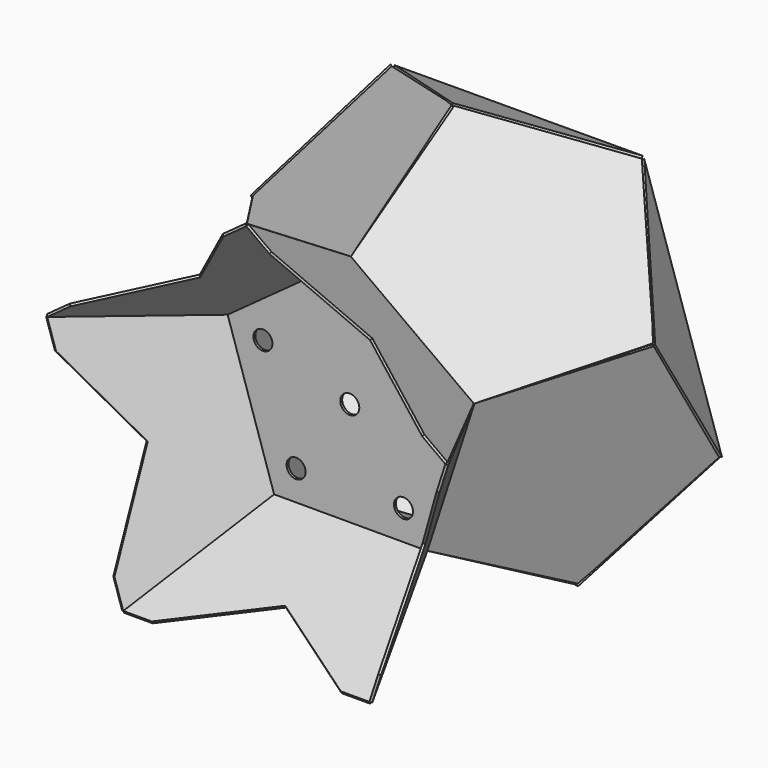
from build123d import *

# Parameters (mm, degrees)
F0_R      = 12.7
F1_DEPTH  = 1.5875
F4_DEPTH  = 3.175
F5_COUNT  = 5
F8_DEPTH  = 3.175
F9_COUNT  = 5
F12_DEPTH = 3.175
F13_COUNT = 5


with BuildPart() as f1:
    # F0 (on Front) → F1 (new body, symmetric)
    with BuildSketch(Plane.XZ):
        Polygon((164.392253257, 53.4142809913), (0, 172.8522442571), (-164.392253257, 53.4142809913), (-101.6, -139.8404031199), (101.6, -139.8404031199), align=None)
        with Locations((-71.7405091835, -98.7423398056)):
            Circle(F0_R, mode=Mode.SUBTRACT)
        Circle(F0_R, mode=Mode.SUBTRACT)
        with Locations((71.7405091835, -98.7423398056)):
            Circle(F0_R, mode=Mode.SUBTRACT)
        with Locations((-116.0785822292, 37.7162176771)):
            Circle(F0_R, mode=Mode.SUBTRACT)
        with Locations((0, 122.0522442571)):
            Circle(F0_R, mode=Mode.SUBTRACT)
        with Locations((116.0785822292, 37.7162176771)):
            Circle(F0_R, mode=Mode.SUBTRACT)
    extrude(amount=F1_DEPTH, both=True)


with BuildPart() as f4:
    # F3 (on face) → F4 (new body)
    with BuildSketch(Plane(origin=(106.027558827, 57.0246804801, -34.4504422064), x_dir=(0.4331011789, -0.8902922986, -0.1407231035), z_dir=(-0.846718292, -0.4553895289, 0.2751154502))):
        Polygon((65.0951943152, 101.6), (65.0951943152, -101.6), (258.3498784264, -164.392253257), (258.3498784264, -126.292253257), (185.4350120119, 0), (258.3498784264, 126.292253257), (258.3498784264, 164.392253257), align=None)
    extrude(amount=F4_DEPTH)


with BuildPart() as f5_1:
    # F5: instance of F4
    add(f4.part.rotate(Axis((0, 0, 0), (0, -1, 0)), 1 * 360 / F5_COUNT))


with BuildPart() as f5_2:
    # F5: instance of F4
    add(f4.part.rotate(Axis((0, 0, 0), (0, -1, 0)), 2 * 360 / F5_COUNT))


with BuildPart() as f5_3:
    # F5: instance of F4
    add(f4.part.rotate(Axis((0, 0, 0), (0, -1, 0)), 3 * 360 / F5_COUNT))


with BuildPart() as f5_4:
    # F5: instance of F4
    add(f4.part.rotate(Axis((0, 0, 0), (0, -1, 0)), 4 * 360 / F5_COUNT))


with BuildPart() as f8:
    # F7 (on face) → F8 (new body)
    with BuildSketch(Plane(origin=(64.670944011, -57.2752760449, 89.0119181165), x_dir=(0.8533295706, 0.2821216489, -0.438447282), z_dir=(-0.5213718864, 0.4617486132, -0.7176068382))):
        Polygon((-73.8517458723, -296.7235646417), (119.9920789466, -357.6728187764), (237.8593003784, -192.1507413609), (116.8614245639, -28.9032174949), (-75.7865966878, -93.532776582), align=None)
    extrude(amount=F8_DEPTH)


with BuildPart() as f9_1:
    # F9: instance of F8
    add(f8.part.rotate(Axis((0, 0, 0), (0, -1, 0)), 1 * 360 / F9_COUNT))


with BuildPart() as f9_2:
    # F9: instance of F8
    add(f8.part.rotate(Axis((0, 0, 0), (0, -1, 0)), 2 * 360 / F9_COUNT))


with BuildPart() as f9_3:
    # F9: instance of F8
    add(f8.part.rotate(Axis((0, 0, 0), (0, -1, 0)), 3 * 360 / F9_COUNT))


with BuildPart() as f9_4:
    # F9: instance of F8
    add(f8.part.rotate(Axis((0, 0, 0), (0, -1, 0)), 4 * 360 / F9_COUNT))


with BuildPart() as f12:
    # F11 (on 3pt) → F12 (new body)
    with BuildSketch(Plane(origin=(-280.4434743568, 142.3697828891, 89.6602066052), x_dir=(-0.4146493978, -0.9002732179, 0.1325670022), z_dir=(-0.8575144416, 0.4353253188, 0.2741547907))):
        Polygon((-151.5740243377, -164.331817213), (-29.9796729478, 1.3161937637), (-149.9455721991, 168.1473444739), align=None)
    extrude(amount=F12_DEPTH)


with BuildPart() as f13_1:
    # F13: instance of F12
    add(f12.part.rotate(Axis((0, 0, 0), (0, -1, 0)), 1 * 360 / F13_COUNT))


with BuildPart() as f13_2:
    # F13: instance of F12
    add(f12.part.rotate(Axis((0, 0, 0), (0, -1, 0)), 2 * 360 / F13_COUNT))


with BuildPart() as f13_3:
    # F13: instance of F12
    add(f12.part.rotate(Axis((0, 0, 0), (0, -1, 0)), 3 * 360 / F13_COUNT))


with BuildPart() as f13_4:
    # F13: instance of F12
    add(f12.part.rotate(Axis((0, 0, 0), (0, -1, 0)), 4 * 360 / F13_COUNT))


with BuildPart() as f14_1:
    # F14: copy of F1
    add(f1.part)


solid = Compound([f1.part, f4.part, f5_1.part, f5_2.part, f5_3.part, f5_4.part, f8.part, f9_1.part, f9_2.part, f9_3.part, f9_4.part, f12.part, f13_1.part, f13_2.part, f13_3.part, f13_4.part, f14_1.part])
